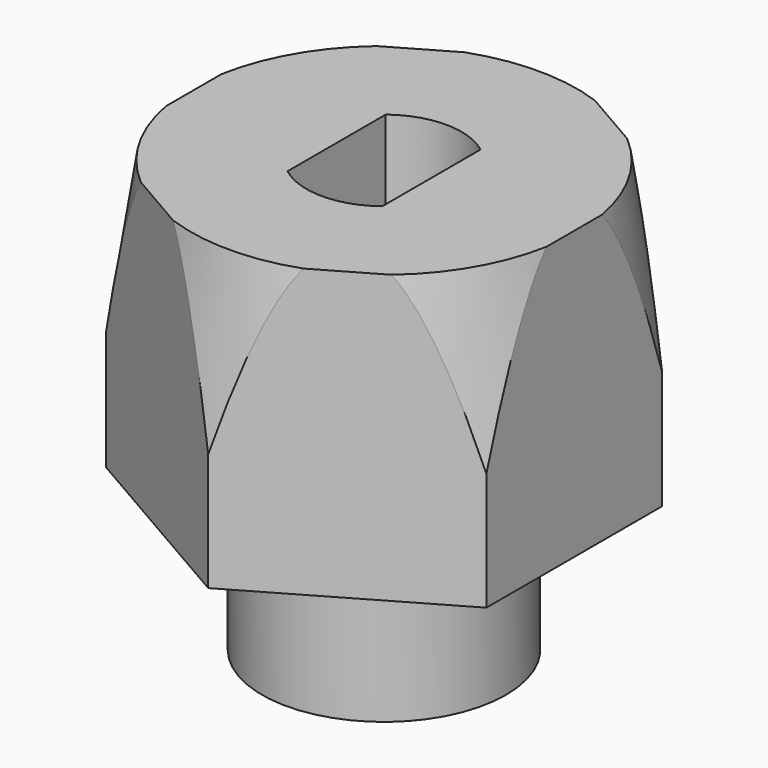
from build123d import *

# Parameters (mm, degrees)
F0_R     = 4.25
F1_DEPTH = 3
F2_START = 3
F2_DEPTH = 2
F3_START = 5
F3_DEPTH = 10


with BuildPart() as f1:
    # F0 (on Top) → F1 (new body)
    with BuildSketch(Plane.XY):
        Circle(F0_R)
        with BuildLine():
            ThreePointArc((1.65, 2.1371710273), (2.4233241632, 1.19058809), (2.7, 0))
            ThreePointArc((2.7, 0), (2.4233241632, -1.19058809), (1.65, -2.1371710273))
            ThreePointArc((1.65, -2.1371710273), (0, -2.7), (-1.65, -2.1371710273))
            ThreePointArc((-1.65, -2.1371710273), (-2.7, 0), (-1.65, 2.1371710273))
            ThreePointArc((-1.65, 2.1371710273), (0, 2.7), (1.65, 2.1371710273))
        make_face(mode=Mode.SUBTRACT)
    extrude(amount=F1_DEPTH)

    # F0 (on Top) → F2 (join)
    with BuildSketch(Plane.XY.offset(F2_START)):
        Circle(F0_R)
        with BuildLine():
            ThreePointArc((1.65, 2.1371710273), (2.4233241632, 1.19058809), (2.7, 0))
            ThreePointArc((2.7, 0), (2.4233241632, -1.19058809), (1.65, -2.1371710273))
            ThreePointArc((1.65, -2.1371710273), (0, -2.7), (-1.65, -2.1371710273))
            ThreePointArc((-1.65, -2.1371710273), (-2.7, 0), (-1.65, 2.1371710273))
            ThreePointArc((-1.65, 2.1371710273), (0, 2.7), (1.65, 2.1371710273))
        make_face(mode=Mode.SUBTRACT)
        with BuildLine():
            Line((-1.65, -2.1371710273), (-1.65, 2.1371710273))
            ThreePointArc((-1.65, 2.1371710273), (-2.7, 0), (-1.65, -2.1371710273))
        make_face()
        with BuildLine():
            ThreePointArc((1.65, -2.1371710273), (2.4233241632, -1.19058809), (2.7, 0))
            ThreePointArc((2.7, 0), (2.4233241632, 1.19058809), (1.65, 2.1371710273))
            Line((1.65, 2.1371710273), (1.65, -2.1371710273))
        make_face()
    extrude(amount=F2_DEPTH)

    # F0 (on Top) → F3 (join)
    with BuildSketch(Plane.XY.offset(F3_START)):
        Polygon((-6.625094339, -3.825), (0, -7.65), (6.625094339, -3.825), (6.625094339, 3.825), (0, 7.65), (-6.625094339, 3.825), align=None)
        Circle(F0_R, mode=Mode.SUBTRACT)
        Circle(F0_R)
        with BuildLine():
            ThreePointArc((1.65, 2.1371710273), (2.4233241632, 1.19058809), (2.7, 0))
            ThreePointArc((2.7, 0), (2.4233241632, -1.19058809), (1.65, -2.1371710273))
            ThreePointArc((1.65, -2.1371710273), (0, -2.7), (-1.65, -2.1371710273))
            ThreePointArc((-1.65, -2.1371710273), (-2.7, 0), (-1.65, 2.1371710273))
            ThreePointArc((-1.65, 2.1371710273), (0, 2.7), (1.65, 2.1371710273))
        make_face(mode=Mode.SUBTRACT)
        with BuildLine():
            ThreePointArc((1.65, -2.1371710273), (2.4233241632, -1.19058809), (2.7, 0))
            ThreePointArc((2.7, 0), (2.4233241632, 1.19058809), (1.65, 2.1371710273))
            Line((1.65, 2.1371710273), (1.65, -2.1371710273))
        make_face()
        with BuildLine():
            Line((-1.65, -2.1371710273), (-1.65, 2.1371710273))
            ThreePointArc((-1.65, 2.1371710273), (-2.7, 0), (-1.65, -2.1371710273))
        make_face()
    extrude(amount=F3_DEPTH)

    # F4 (on Right) → F5 (revolve, cut)
    with BuildSketch(Plane.YZ):
        Polygon((-8.316071704, 4.8156171106), (-6.5929647535, 15.9113816917), (-8.316071704, 15.9113816917), align=None)
    revolve(axis=Axis((0, 0, 4.9219373614), (0, 0, 1)), mode=Mode.SUBTRACT)


solid = f1.part
